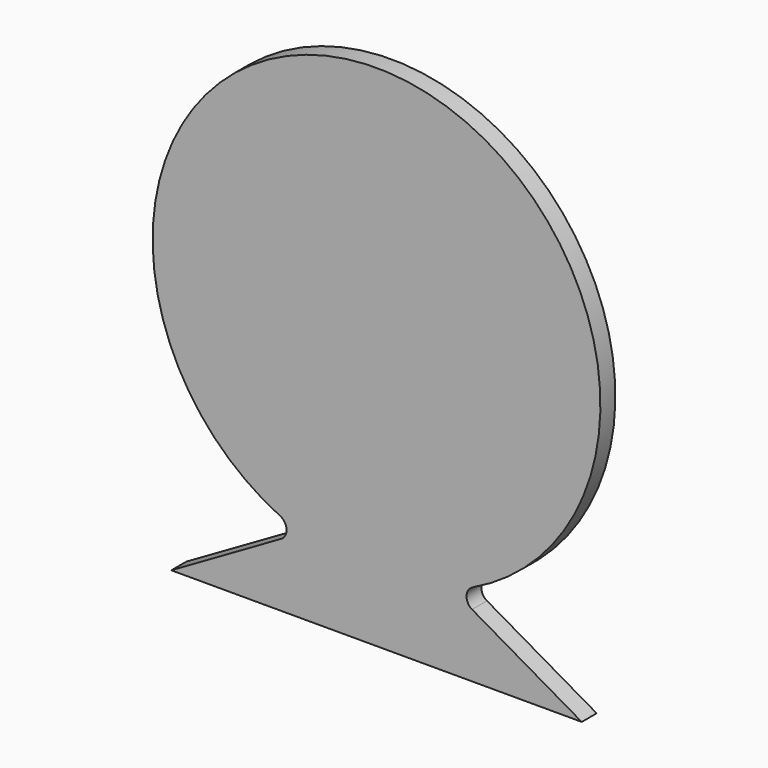
from build123d import *

# Parameters (mm, degrees)
F1_DEPTH = 5


with BuildPart() as f1:
    # F0 (on Front) → F1 (new body)
    with BuildSketch(Plane.XZ):
        with BuildLine():
            Line((1.894506, -17.615913), (-27.500473, -34.587112))
            Line((-27.500473, -34.587112), (82.499527, -34.587112))
            Line((82.499527, -34.587112), (53.104548, -17.615913))
            ThreePointArc((53.104548, -17.615913), (51.606879, -14.899604), (53.313833, -12.309691))
            ThreePointArc((53.313833, -12.309691), (27.499527, 101.853226), (1.685221, -12.309691))
            ThreePointArc((1.685221, -12.309691), (3.392175, -14.899604), (1.894506, -17.615913))
        make_face()
    extrude(amount=F1_DEPTH)


solid = f1.part
